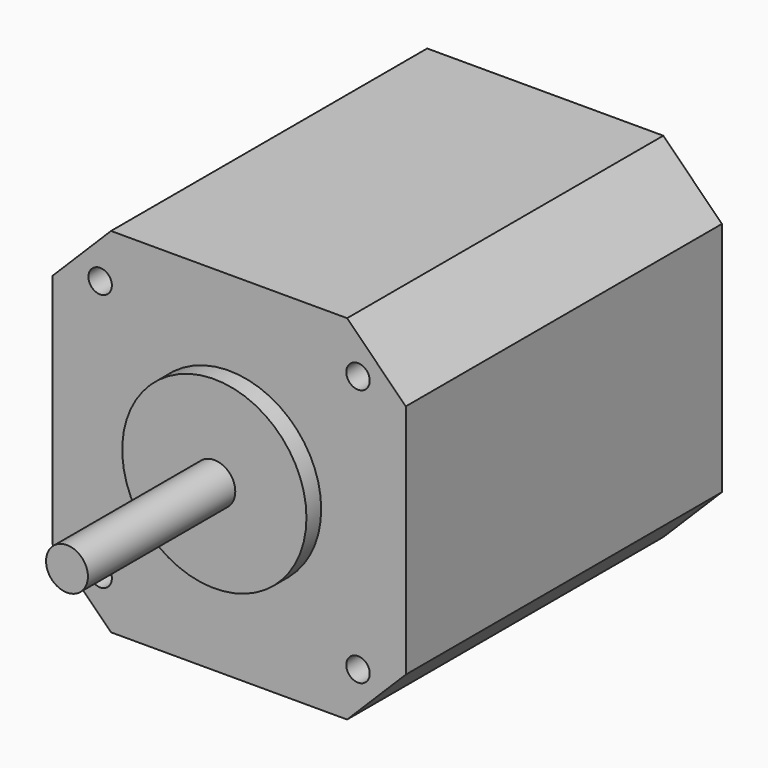
from build123d import *

# Parameters (mm, degrees)
F0_W     = 42.2
F0_H     = 42.2
F1_DEPTH = 23.6
F2_SIZE  = 7
F3_R     = 2.5
F4_DEPTH = 24.2
F5_R     = 11
F6_DEPTH = 2.2
F7_R     = 1.4
F8_DEPTH = 10


with BuildPart() as f1:
    # F0 (on Front) → F1 (new body, symmetric)
    with BuildSketch(Plane.XZ):
        Rectangle(F0_W, F0_H)
    extrude(amount=F1_DEPTH, both=True)

    # F2
    f2_edges = [f1.edges().sort_by_distance(p)[0] for p in [
        (21.1, 0, 21.1),
        (-21.1, 0, 21.1),
        (21.1, 0, -21.1),
        (-21.1, 0, -21.1),
    ]]
    chamfer(f2_edges, length=F2_SIZE)

    # F3 (on face) → F4 (join)
    with BuildSketch(Plane.XZ.offset(23.6)):
        Circle(F3_R)
    extrude(amount=F4_DEPTH)

    # F5 (on face) → F6 (join)
    with BuildSketch(Plane.XZ.offset(23.6)):
        Circle(F5_R)
    extrude(amount=F6_DEPTH)

    # F7 (on face) → F8 (cut)
    with BuildSketch(Plane.XZ.offset(23.6)):
        with Locations((-15.4, -15.4)):
            Circle(F7_R)
        with Locations((-15.4, 15.4)):
            Circle(F7_R)
        with Locations((15.4, -15.4)):
            Circle(F7_R)
        with Locations((15.4, 15.4)):
            Circle(F7_R)
    extrude(amount=-F8_DEPTH, mode=Mode.SUBTRACT)


solid = f1.part
